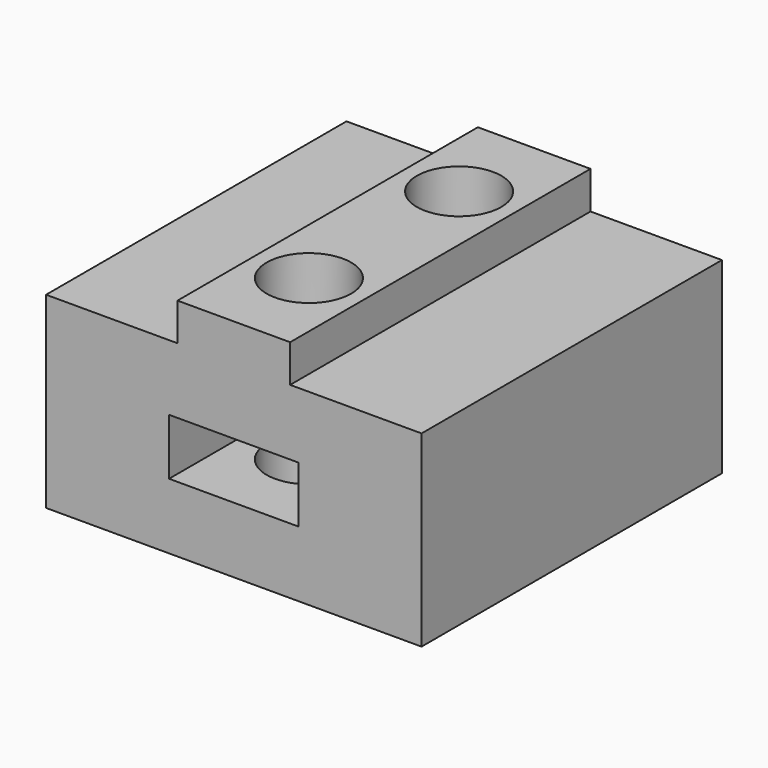
from build123d import *

# Parameters (mm, degrees)
SKETCH_W     = 20
SKETCH_H     = 20
SKETCH_R     = 2.25
PAD_DEPTH    = 10
SKETCH001_W  = 6
SKETCH001_H  = 20
SKETCH001_R  = 2.25
PAD001_DEPTH = 2
SKETCH002_W  = 6.9
SKETCH002_H  = 3
POCKET_DEPTH = 10


with BuildPart() as part:
    # Sketch → Pad (new body)
    with BuildSketch(Plane.XY):
        Rectangle(SKETCH_W, SKETCH_H)
        with Locations((0, 5)):
            Circle(SKETCH_R, mode=Mode.SUBTRACT)
        with Locations((0, -5)):
            Circle(SKETCH_R, mode=Mode.SUBTRACT)
    extrude(amount=PAD_DEPTH)

    # Sketch001 → Pad001 (new body)
    with BuildSketch(Plane.XY.offset(10)):
        Rectangle(SKETCH001_W, SKETCH001_H)
        with Locations((0, 5)):
            Circle(SKETCH001_R, mode=Mode.SUBTRACT)
        with Locations((0, -5)):
            Circle(SKETCH001_R, mode=Mode.SUBTRACT)
    extrude(amount=PAD001_DEPTH)

    # Sketch002 → Pocket (cut)
    with BuildSketch(Plane.XZ.offset(10)):
        with Locations((0, 5)):
            Rectangle(SKETCH002_W, SKETCH002_H)
    extrude(amount=-POCKET_DEPTH, mode=Mode.SUBTRACT)


solid = part.part
